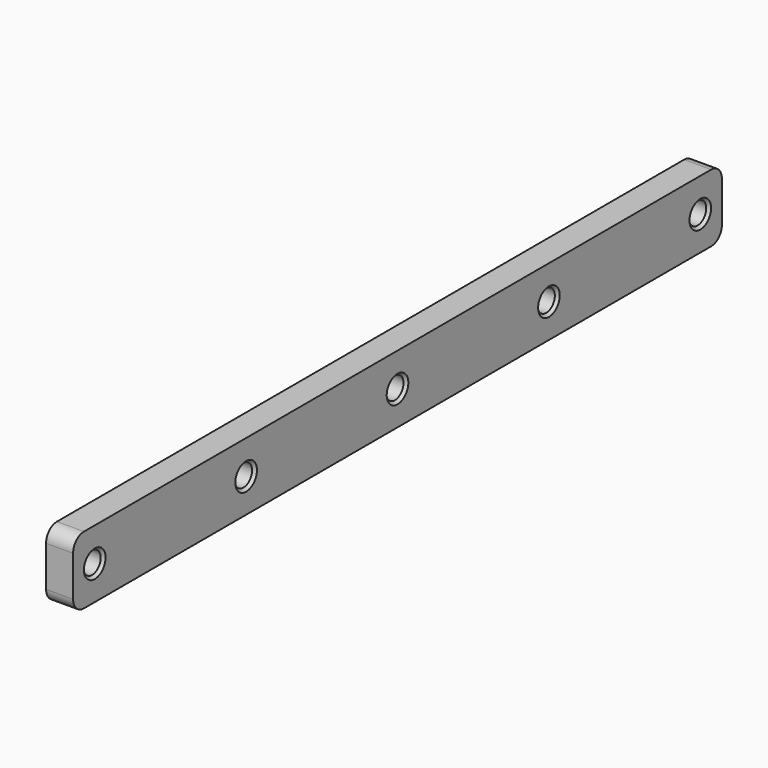
from build123d import *

# Parameters (mm, degrees)
F0_W           = 10
F0_H           = 300
F1_DEPTH       = 25
F3_D           = 8
F3_CSINK_D     = 10
F3_CSINK_ANGLE = 90
F4_R           = 5


with BuildPart() as f1:
    # F0 (on Top) → F1 (new body)
    with BuildSketch(Plane.XY):
        with Locations((-5, 150)):
            Rectangle(F0_W, F0_H)
    extrude(amount=F1_DEPTH)

    # F3 (through all)
    with Locations(Plane.YZ):
        with Locations((10, 12.5), (80, 12.5), (150, 12.5), (220, 12.5), (290, 12.5)):
            CounterSinkHole(F3_D / 2, F3_CSINK_D / 2, counter_sink_angle=F3_CSINK_ANGLE)

    # F4
    f4_edges = [f1.edges().sort_by_distance(p)[0] for p in [
        (-5, 0, 0),
        (-5, 300, 0),
        (-5, 0, 25),
        (-5, 300, 25),
    ]]
    fillet(f4_edges, radius=F4_R)


solid = f1.part
